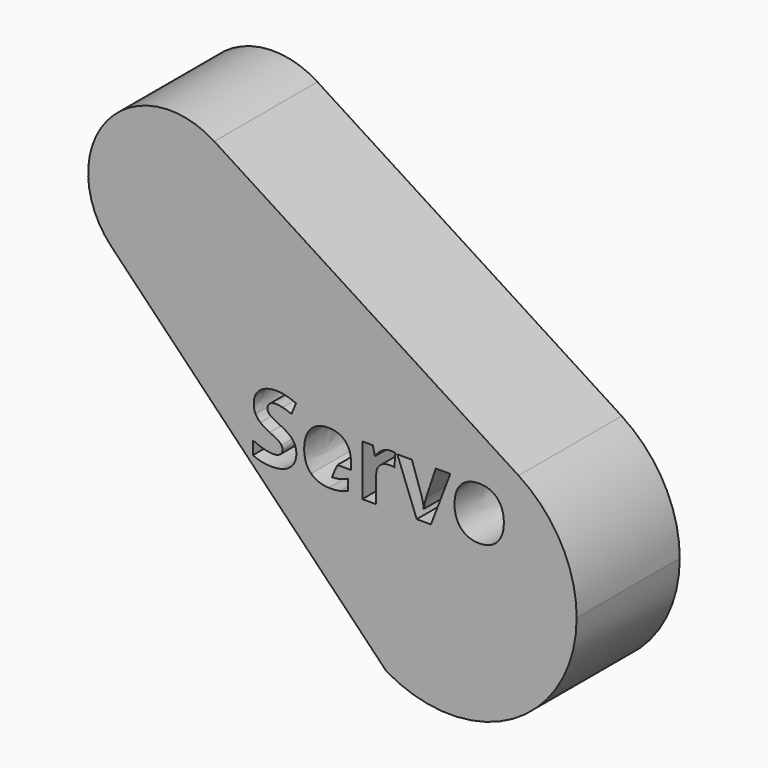
from build123d import *

# Parameters (mm, degrees)
F1_DEPTH = 9.525


with BuildPart() as f1:
    # F0 (on Front) → F1 (new body)
    with BuildSketch(Plane.XZ):
        with BuildLine():
            ThreePointArc((-7.5064634302, 5.5483481321), (-1.6884786167, 9.1804248368), (5.0410928398, 7.8561150198))
            Line((5.0410928398, 7.8561150198), (-17.4395217917, 22.2814213152))
            ThreePointArc((-17.4395217917, 22.2814213152), (-15.3970130347, 20.0899078742), (-14.655637054, 17.1873340441))
            ThreePointArc((-14.655637054, 17.1873340441), (-18.4394665066, 11.5760064467), (-25.0600108779, 12.9805544023))
            Line((-25.0600108779, 12.9805544023), (-8.1994643326, -4.4609354268))
            ThreePointArc((-8.1994643326, -4.4609354268), (-9.2744575004, -1.0562188677), (-8.9925532114, 2.5030275596))
            add(Edge.make_bspline(
                [(-8.9925532114, 2.5030275596), (-9.810689736, 2.5354179302), (-10.2860927177, 3.0018132764)],
                knots=[0.0694483143, 0.0694483143, 0.0694483143, 1, 1, 1], degree=2))
            add(Edge.make_bspline(
                [(-10.2860927177, 3.0018132764), (-10.7969756583, 3.5030163297), (-10.7969756583, 4.4204545369)],
                knots=[0, 0, 0, 1, 1, 1], degree=2))
            add(Edge.make_bspline(
                [(-10.7969756583, 4.4204545369), (-10.7969756583, 5.3647813198), (-10.3248122669, 5.8805042041)],
                knots=[0, 0, 0, 1, 1, 1], degree=2))
            add(Edge.make_bspline(
                [(-10.3248122669, 5.8805042041), (-9.8526488754, 6.3962270884), (-9.0191030248, 6.3962270884)],
                knots=[0, 0, 0, 1, 1, 1], degree=2))
            add(Edge.make_bspline(
                [(-9.0191030248, 6.3962270884), (-8.2232011804, 6.3962270884), (-7.7795396793, 5.9428857)],
                knots=[0, 0, 0, 1, 1, 1], degree=2))
            add(Edge.make_bspline(
                [(-7.7795396793, 5.9428857), (-7.6109819931, 5.7706503915), (-7.5064634302, 5.5483481321)],
                knots=[0, 0, 0, 0.3799240768, 0.3799240768, 0.3799240768], degree=2))
        make_face()
        with BuildLine():
            add(Edge.make_bspline(
                [(-11.6342859095, 4.7447307613), (-11.3788444392, 4.4140012787), (-11.3788444392, 3.9332335429)],
                knots=[0, 0, 0, 1, 1, 1], degree=2))
            add(Edge.make_bspline(
                [(-11.3788444392, 3.9332335429), (-11.3788444392, 3.2674724055), (-11.8579988603, 2.8840413143)],
                knots=[0, 0, 0, 1, 1, 1], degree=2))
            add(Edge.make_bspline(
                [(-11.8579988603, 2.8840413143), (-12.3371532815, 2.500610223), (-13.1900589067, 2.500610223)],
                knots=[0, 0, 0, 1, 1, 1], degree=2))
            add(Edge.make_bspline(
                [(-13.1900589067, 2.500610223), (-13.9773564068, 2.500610223), (-14.5818115913, 2.7974601001)],
                knots=[0, 0, 0, 1, 1, 1], degree=2))
            Line((-14.5818115913, 2.7974601001), (-14.5818115913, 3.7654488298))
            add(Edge.make_bspline(
                [(-14.5818115913, 3.7654488298), (-14.0849107101, 3.542811422), (-13.740199168, 3.4524658072)],
                knots=[0, 0, 0, 1, 1, 1], degree=2))
            add(Edge.make_bspline(
                [(-13.740199168, 3.4524658072), (-13.395487626, 3.3621201924), (-13.1093931792, 3.3621201924)],
                knots=[0, 0, 0, 1, 1, 1], degree=2))
            add(Edge.make_bspline(
                [(-13.1093931792, 3.3621201924), (-12.7673704947, 3.3621201924), (-12.5839904076, 3.4927986709)],
                knots=[0, 0, 0, 1, 1, 1], degree=2))
            add(Edge.make_bspline(
                [(-12.5839904076, 3.4927986709), (-12.4006103205, 3.6234771494), (-12.4006103205, 3.8826830204)],
                knots=[0, 0, 0, 1, 1, 1], degree=2))
            add(Edge.make_bspline(
                [(-12.4006103205, 3.8826830204), (-12.4006103205, 4.0268057868), (-12.4812760479, 4.1397378053)],
                knots=[0, 0, 0, 1, 1, 1], degree=2))
            add(Edge.make_bspline(
                [(-12.4812760479, 4.1397378053), (-12.5619417754, 4.2526698237), (-12.7184332867, 4.3564597264)],
                knots=[0, 0, 0, 1, 1, 1], degree=2))
            add(Edge.make_bspline(
                [(-12.7184332867, 4.3564597264), (-12.874924798, 4.4602496291), (-13.3556925337, 4.6893402951)],
                knots=[0, 0, 0, 1, 1, 1], degree=2))
            add(Edge.make_bspline(
                [(-13.3556925337, 4.6893402951), (-13.8052695215, 4.9012222726), (-14.0305957869, 5.0958955616)],
                knots=[0, 0, 0, 1, 1, 1], degree=2))
            add(Edge.make_bspline(
                [(-14.0305957869, 5.0958955616), (-14.2559220523, 5.2905688505), (-14.3903649315, 5.5497747215)],
                knots=[0, 0, 0, 1, 1, 1], degree=2))
            add(Edge.make_bspline(
                [(-14.3903649315, 5.5497747215), (-14.5248078106, 5.8089805924), (-14.5248078106, 6.154229906)],
                knots=[0, 0, 0, 1, 1, 1], degree=2))
            add(Edge.make_bspline(
                [(-14.5248078106, 6.154229906), (-14.5248078106, 6.807084527), (-14.082759624, 7.1797601879)],
                knots=[0, 0, 0, 1, 1, 1], degree=2))
            add(Edge.make_bspline(
                [(-14.082759624, 7.1797601879), (-13.6407114375, 7.5524358489), (-12.8609427386, 7.5524358489)],
                knots=[0, 0, 0, 1, 1, 1], degree=2))
            add(Edge.make_bspline(
                [(-12.8609427386, 7.5524358489), (-12.4780494188, 7.5524358489), (-12.1301112477, 7.4620902341)],
                knots=[0, 0, 0, 1, 1, 1], degree=2))
            add(Edge.make_bspline(
                [(-12.1301112477, 7.4620902341), (-11.7821730765, 7.3717446193), (-11.4025063859, 7.2071865353)],
                knots=[0, 0, 0, 1, 1, 1], degree=2))
            Line((-11.4025063859, 7.2071865353), (-11.7380758122, 6.3962270884))
            add(Edge.make_bspline(
                [(-11.7380758122, 6.3962270884), (-12.1317245622, 6.5575585434), (-12.3887793471, 6.6215533538)],
                knots=[0, 0, 0, 1, 1, 1], degree=2))
            add(Edge.make_bspline(
                [(-12.3887793471, 6.6215533538), (-12.645834132, 6.6855481643), (-12.8942845726, 6.6855481643)],
                knots=[0, 0, 0, 1, 1, 1], degree=2))
            add(Edge.make_bspline(
                [(-12.8942845726, 6.6855481643), (-13.1900589067, 6.6855481643), (-13.3481637325, 6.5478786561)],
                knots=[0, 0, 0, 1, 1, 1], degree=2))
            add(Edge.make_bspline(
                [(-13.3481637325, 6.5478786561), (-13.5062685584, 6.4102091478), (-13.5062685584, 6.1886472831)],
                knots=[0, 0, 0, 1, 1, 1], degree=2))
            add(Edge.make_bspline(
                [(-13.5062685584, 6.1886472831), (-13.5062685584, 6.0509777748), (-13.4422737479, 5.9482634152)],
                knots=[0, 0, 0, 1, 1, 1], degree=2))
            add(Edge.make_bspline(
                [(-13.4422737479, 5.9482634152), (-13.3782789374, 5.8455490555), (-13.2389961147, 5.7498257256)],
                knots=[0, 0, 0, 1, 1, 1], degree=2))
            add(Edge.make_bspline(
                [(-13.2389961147, 5.7498257256), (-13.0997132919, 5.6541023957), (-12.5791504639, 5.4056519551)],
                knots=[0, 0, 0, 1, 1, 1], degree=2))
            add(Edge.make_bspline(
                [(-12.5791504639, 5.4056519551), (-11.8897273798, 5.0754602439), (-11.6342859095, 4.7447307613)],
                knots=[0, 0, 0, 1, 1, 1], degree=2))
        make_face(mode=Mode.SUBTRACT)
        with BuildLine():
            ThreePointArc((-14.655637054, 17.1873340441), (-15.3970130347, 20.0899078742), (-17.4395217917, 22.2814213152))
            ThreePointArc((-17.4395217917, 22.2814213152), (-25.3901350407, 21.0233205124), (-25.0600108779, 12.9805544023))
            ThreePointArc((-25.0600108779, 12.9805544023), (-18.4394665066, 11.5760064467), (-14.655637054, 17.1873340441))
        make_face()
        with BuildLine():
            ThreePointArc((-4.7360316081, -8.0437034276), (4.6326618731, -8.103678436), (9.3344073312, 0))
            ThreePointArc((9.3344073312, 0), (8.19105531, 4.4763571274), (5.0410928398, 7.8561150198))
            ThreePointArc((5.0410928398, 7.8561150198), (-1.6884786167, 9.1804248368), (-7.5064634302, 5.5483481321))
            add(Edge.make_bspline(
                [(-7.5064634302, 5.5483481321), (-7.3358781782, 5.1855275394), (-7.3358781782, 4.6893402951)],
                knots=[0.3799240768, 0.3799240768, 0.3799240768, 1, 1, 1], degree=2))
            Line((-7.3358781782, 4.6893402951), (-7.3358781782, 4.1913638708))
            Line((-7.3358781782, 4.1913638708), (-8.3404813486, 4.1913638708))
            ThreePointArc((-8.3404813486, 4.1913638708), (-8.5551395781, 3.7337309789), (-8.7447104606, 3.2651491826))
            add(Edge.make_bspline(
                [(-8.7447104606, 3.2651491826), (-8.4471066944, 3.2722234466), (-8.1791039161, 3.3346938451)],
                knots=[0.1132418576, 0.1132418576, 0.1132418576, 1, 1, 1], degree=2))
            add(Edge.make_bspline(
                [(-8.1791039161, 3.3346938451), (-7.8768763238, 3.4051419137), (-7.5477601557, 3.5600201105)],
                knots=[0, 0, 0, 1, 1, 1], degree=2))
            Line((-7.5477601557, 3.5600201105), (-7.5477601557, 2.7662693522))
            add(Edge.make_bspline(
                [(-7.5477601557, 2.7662693522), (-7.816645914, 2.631826473), (-8.1221001353, 2.566218348)],
                knots=[0, 0, 0, 1, 1, 1], degree=2))
            add(Edge.make_bspline(
                [(-8.1221001353, 2.566218348), (-8.4275543567, 2.500610223), (-8.8685270002, 2.500610223)],
                knots=[0, 0, 0, 1, 1, 1], degree=2))
            add(Edge.make_bspline(
                [(-8.8685270002, 2.500610223), (-8.9314945906, 2.500610223), (-8.9925532114, 2.5030275596)],
                knots=[0, 0, 0, 0.0694483143, 0.0694483143, 0.0694483143], degree=2))
            ThreePointArc((-8.9925532114, 2.5030275596), (-9.2744575004, -1.0562188677), (-8.1994643326, -4.4609354268))
            Line((-8.1994643326, -4.4609354268), (-4.7360316081, -8.0437034276))
        make_face()
        with BuildLine():
            add(Edge.make_bspline(
                [(-5.0519625477, 6.203167114), (-4.7545748991, 6.3962270884), (-4.4050234134, 6.3962270884)],
                knots=[0, 0, 0, 1, 1, 1], degree=2))
            add(Edge.make_bspline(
                [(-4.4050234134, 6.3962270884), (-4.196368065, 6.3962270884), (-4.0586985568, 6.3661118835)],
                knots=[0, 0, 0, 1, 1, 1], degree=2))
            Line((-4.0586985568, 6.3661118835), (-4.1361376552, 5.4056519551))
            add(Edge.make_bspline(
                [(-4.1361376552, 5.4056519551), (-4.260900647, 5.4389937891), (-4.4383652474, 5.4389937891)],
                knots=[0, 0, 0, 1, 1, 1], degree=2))
            add(Edge.make_bspline(
                [(-4.4383652474, 5.4389937891), (-4.9288128705, 5.4389937891), (-5.2030763439, 5.1867789478)],
                knots=[0, 0, 0, 1, 1, 1], degree=2))
            add(Edge.make_bspline(
                [(-5.2030763439, 5.1867789478), (-5.4773398173, 4.9345641066), (-5.4773398173, 4.4806849467)],
                knots=[0, 0, 0, 1, 1, 1], degree=2))
            Line((-5.4773398173, 4.4806849467), (-5.4773398173, 2.5683694341))
            Line((-5.4773398173, 2.5683694341), (-6.5023323277, 2.5683694341))
            Line((-6.5023323277, 2.5683694341), (-6.5023323277, 6.3263167913))
            Line((-6.5023323277, 6.3263167913), (-5.7257902579, 6.3263167913))
            Line((-5.7257902579, 6.3263167913), (-5.5741386903, 5.6938974879))
            Line((-5.5741386903, 5.6938974879), (-5.5246637107, 5.6938974879))
            add(Edge.make_bspline(
                [(-5.5246637107, 5.6938974879), (-5.3493501964, 6.0101071396), (-5.0519625477, 6.203167114)],
                knots=[0, 0, 0, 1, 1, 1], degree=2))
        make_face(mode=Mode.SUBTRACT)
        with BuildLine():
            Line((-1.4311469273, 2.5683694341), (-2.4830280135, 2.5683694341))
            Line((-2.4830280135, 2.5683694341), (-3.9145757904, 6.3263167913))
            Line((-3.9145757904, 6.3263167913), (-2.8422593865, 6.3263167913))
            Line((-2.8422593865, 6.3263167913), (-2.1162678393, 4.1849106126))
            add(Edge.make_bspline(
                [(-2.1162678393, 4.1849106126), (-1.9958070196, 3.7783553462), (-1.9646162716, 3.4158973441)],
                knots=[0, 0, 0, 1, 1, 1], degree=2))
            Line((-1.9646162716, 3.4158973441), (-1.945256497, 3.4158973441))
            add(Edge.make_bspline(
                [(-1.945256497, 3.4158973441), (-1.9280478085, 3.738560254), (-1.7936049294, 4.1849106126)],
                knots=[0, 0, 0, 1, 1, 1], degree=2))
            Line((-1.7936049294, 4.1849106126), (-1.0708400112, 6.3263167913))
            Line((-1.0708400112, 6.3263167913), (0.0014763926, 6.3263167913))
            Line((0.0014763926, 6.3263167913), (-1.4311469273, 2.5683694341))
        make_face(mode=Mode.SUBTRACT)
        with BuildLine():
            add(Edge.make_bspline(
                [(3.732535174, 5.485779911), (3.9540970388, 5.045345039), (3.9540970388, 4.4537963709)],
                knots=[0, 0, 0, 1, 1, 1], degree=2))
            add(Edge.make_bspline(
                [(3.9540970388, 4.4537963709), (3.9540970388, 3.5363581638), (3.4701026739, 3.0184841934)],
                knots=[0, 0, 0, 1, 1, 1], degree=2))
            add(Edge.make_bspline(
                [(3.4701026739, 3.0184841934), (2.9861083091, 2.500610223), (2.1224472536, 2.500610223)],
                knots=[0, 0, 0, 1, 1, 1], degree=2))
            add(Edge.make_bspline(
                [(2.1224472536, 2.500610223), (1.5814491081, 2.500610223), (1.1679028119, 2.7377674618)],
                knots=[0, 0, 0, 1, 1, 1], degree=2))
            add(Edge.make_bspline(
                [(1.1679028119, 2.7377674618), (0.7543565157, 2.9749247006), (0.5327946509, 3.4185862017)],
                knots=[0, 0, 0, 1, 1, 1], degree=2))
            add(Edge.make_bspline(
                [(0.5327946509, 3.4185862017), (0.3112327861, 3.8622477028), (0.3112327861, 4.4537963709)],
                knots=[0, 0, 0, 1, 1, 1], degree=2))
            add(Edge.make_bspline(
                [(0.3112327861, 4.4537963709), (0.3112327861, 5.3744612071), (0.7914627503, 5.8853441478)],
                knots=[0, 0, 0, 1, 1, 1], degree=2))
            add(Edge.make_bspline(
                [(0.7914627503, 5.8853441478), (1.2716927146, 6.3962270884), (2.1428825713, 6.3962270884)],
                knots=[0, 0, 0, 1, 1, 1], degree=2))
            add(Edge.make_bspline(
                [(2.1428825713, 6.3962270884), (2.6838807168, 6.3962270884), (3.097427013, 6.1612209357)],
                knots=[0, 0, 0, 1, 1, 1], degree=2))
            add(Edge.make_bspline(
                [(3.097427013, 6.1612209357), (3.5109733092, 5.926214783), (3.732535174, 5.485779911)],
                knots=[0, 0, 0, 1, 1, 1], degree=2))
        make_face(mode=Mode.SUBTRACT)
    extrude(amount=F1_DEPTH)


solid = f1.part
